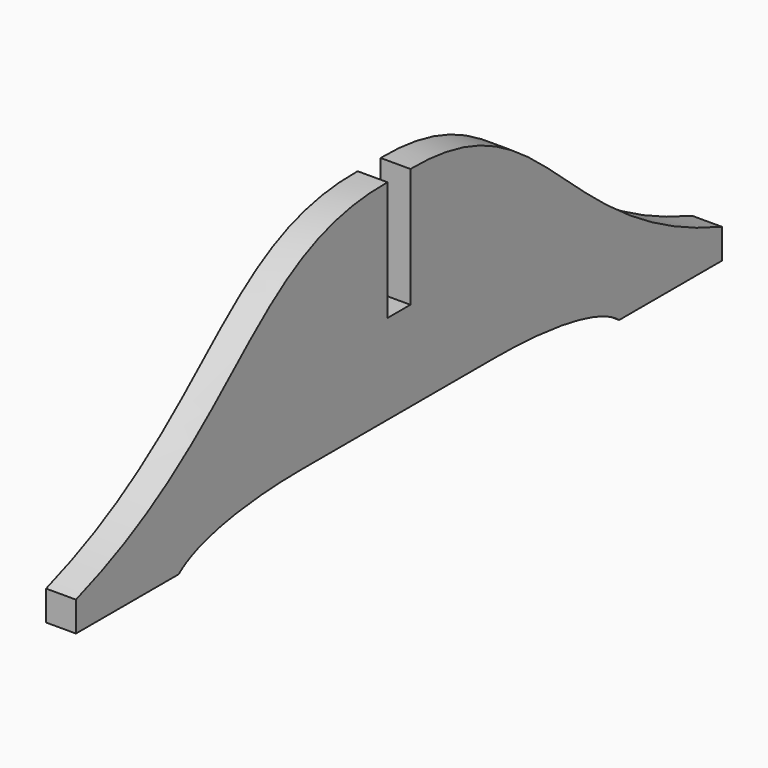
from build123d import *

# Parameters (mm, degrees)
F0_W     = 2.4
F0_H     = 15
F1_DEPTH = 5


with BuildPart() as f1:
    # F0 (on Right) → F1 (new body)
    with BuildSketch(Plane.YZ):
        with BuildLine():
            Line((2.4, 20), (2.4, 5))
            Line((2.4, 5), (20.186463, 5))
            add(Edge.make_bspline(
                [(46.06498, 0), (42.300154, 3.166663), (32.452856, 5), (20.186463, 5)],
                knots=[0, 0, 0, 0, 26.357117, 26.357117, 26.357117, 26.357117], degree=3))
            Line((46.06498, 0), (67.555659, 0))
            Line((67.555659, 0), (67.555659, 5))
            add(Edge.make_bspline(
                [(2.4, 40), (30.796705, 40.330239), (33.309266, 16.703796), (67.555659, 5)],
                knots=[0, 0, 0, 0, 73.961205, 73.961205, 73.961205, 73.961205], degree=3))
            Line((2.4, 40), (2.4, 20))
        make_face()
        with Locations((1.2, 12.5)):
            Rectangle(F0_W, F0_H)
        with Locations((-1.2, 12.5)):
            Rectangle(F0_W, F0_H)
        with BuildLine():
            Line((-20.186463, 5), (-2.4, 5))
            Line((-2.4, 5), (-2.4, 20))
            Line((-2.4, 20), (-2.4, 40))
            add(Edge.make_bspline(
                [(-2.4, 40), (-30.796705, 40.330239), (-33.309266, 16.703796), (-67.555659, 5)],
                knots=[0, 0, 0, 0, 73.961205, 73.961205, 73.961205, 73.961205], degree=3))
            Line((-67.555659, 5), (-67.555659, 0))
            Line((-67.555659, 0), (-46.06498, 0))
            add(Edge.make_bspline(
                [(-46.06498, 0), (-42.300154, 3.166663), (-32.452856, 5), (-20.186463, 5)],
                knots=[0, 0, 0, 0, 26.357117, 26.357117, 26.357117, 26.357117], degree=3))
        make_face()
    extrude(amount=F1_DEPTH)


solid = f1.part
